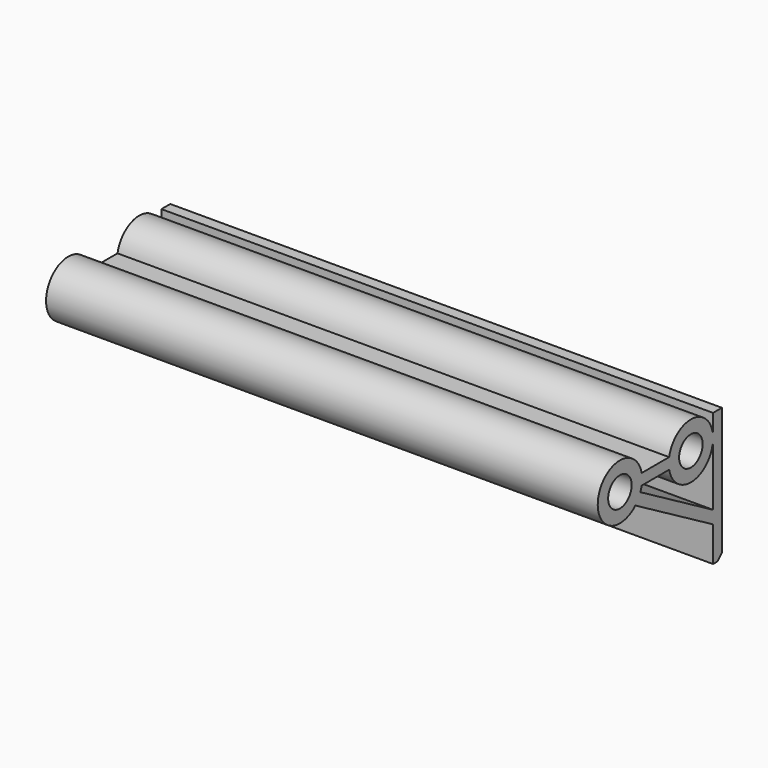
from build123d import *

# Parameters (mm, degrees)
CYLINDER048_R          = 2.65
CYLINDER048_DEPTH      = 99.5
CYLINDER049_R          = 2.65
CYLINDER049_DEPTH      = 99.5
CYLINDER047_R          = 5
CYLINDER047_DEPTH      = 99.5
BOX043_W               = 99.5
BOX043_H               = 23
BOX043_DEPTH           = 2
BOX043_PLACEMENT_ANGLE = 30
BOX044_W               = 99.5
BOX044_H               = 2
BOX044_DEPTH           = 24
BOX045_W               = 99.5
BOX045_H               = 19
BOX045_DEPTH           = 2
CYLINDER050_R          = 5
CYLINDER050_DEPTH      = 99.5
CHAMFER006037_SIZE     = 1


with BuildPart() as cylinder048:
    # Cylinder048 → Cylinder048 (new body)
    with BuildSketch(Plane(origin=(15, 8, 15), x_dir=(0, 0, -1), z_dir=(1, 0, 0))):
        Circle(CYLINDER048_R)
    extrude(amount=CYLINDER048_DEPTH)


with BuildPart() as fusion020006007003002009018004004017:
    # Cylinder049 → Cylinder049 (new body)
    with BuildSketch(Plane(origin=(15, -8, 15), x_dir=(0, 0, -1), z_dir=(1, 0, 0))):
        Circle(CYLINDER049_R)
    extrude(amount=CYLINDER049_DEPTH)

    # Fusion020006007003002009018004004017: union Cylinder048
    add(cylinder048.part)


with BuildPart() as cylinder047:
    # Cylinder047 → Cylinder047 (new body)
    with BuildSketch(Plane(origin=(15, 8, 15), x_dir=(0, 0, -1), z_dir=(1, 0, 0))):
        Circle(CYLINDER047_R)
    extrude(amount=CYLINDER047_DEPTH)


with BuildPart() as cube043:
    # Box043 → Box043 (new body)
    with BuildSketch(Plane.XY):
        with Locations((49.75, 11.5)):
            Rectangle(BOX043_W, BOX043_H)
    extrude(amount=BOX043_DEPTH)


with BuildPart() as cube043_1:
    # Box043 placement: moved
    add(cube043.part.moved(Location((15, -6, 12.267949))).rotate(Axis((15, -6, 12.267949), (-1, 0, 0)), BOX043_PLACEMENT_ANGLE))


with BuildPart() as cube044:
    # Box044 → Box044 (new body)
    with BuildSketch(Plane(origin=(15, 13, -5), x_dir=(1, 0, 0), z_dir=(0, 0, 1))):
        with Locations((49.75, 1)):
            Rectangle(BOX044_W, BOX044_H)
    extrude(amount=BOX044_DEPTH)


with BuildPart() as cube045:
    # Box045 → Box045 (new body)
    with BuildSketch(Plane(origin=(15, -5, 14), x_dir=(1, 0, 0), z_dir=(0, 0, 1))):
        with Locations((49.75, 9.5)):
            Rectangle(BOX045_W, BOX045_H)
    extrude(amount=BOX045_DEPTH)


with BuildPart() as obj1:
    # Cylinder050 → Cylinder050 (new body)
    with BuildSketch(Plane(origin=(15, -8, 15), x_dir=(0, 0, -1), z_dir=(1, 0, 0))):
        Circle(CYLINDER050_R)
    extrude(amount=CYLINDER050_DEPTH)

    # Fusion020006007003002009018004004016: union Cylinder047, Cube043, Cube044, Cube045
    add(cylinder047.part)
    add(cube043_1.part)
    add(cube044.part)
    add(cube045.part)

    # Chamfer006037
    chamfer006037_edges = [obj1.edges().sort_by_distance(p)[0] for p in [
        (64.75, 15, -5),
    ]]
    chamfer(chamfer006037_edges, length=CHAMFER006037_SIZE)

    # Cut019003007: cut Fusion020006007003002009018004004017
    add(fusion020006007003002009018004004017.part, mode=Mode.SUBTRACT)


solid = obj1.part
